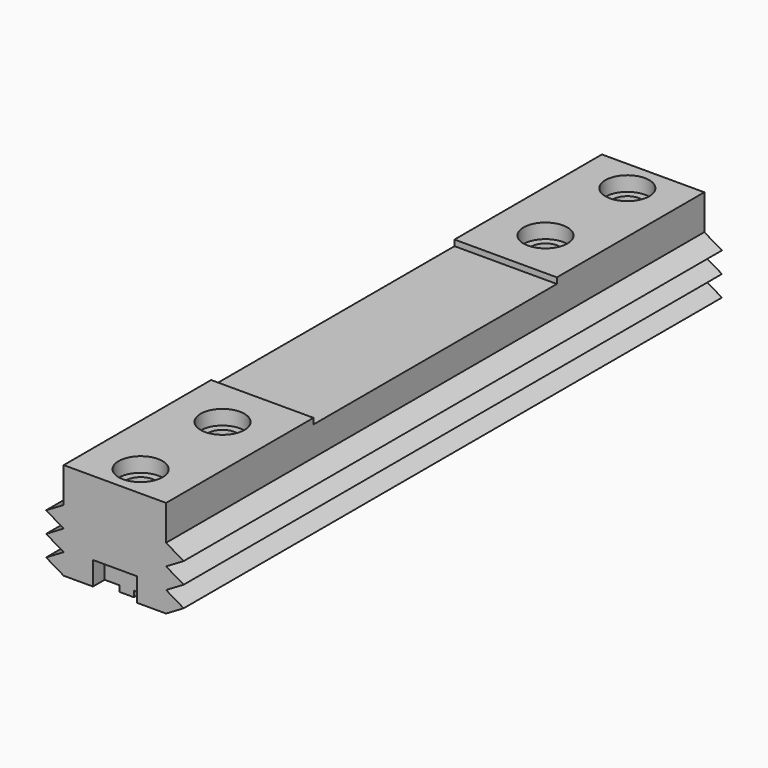
from build123d import *

# Parameters (mm, degrees)
F0_W      = 35
F0_H      = 63
F1_DEPTH  = 35.3
F2_W      = 15
F2_H      = 2
F3_DEPTH  = 63.001
F4_DEPTH  = 63
F5_R      = 5
F6_DEPTH  = 23
F5_R_2    = 7.5
F7_DEPTH  = 5
F9_DEPTH  = 5
F11_DEPTH = 104
F13_DEPTH = 63
F14_R     = 5
F15_DEPTH = 23
F14_R_2   = 7.5
F16_DEPTH = 5
F17_R     = 1.75
F18_DEPTH = 5
F20_DEPTH = 5


with BuildPart() as f1:
    # F0 (on Top) → F1 (new body)
    with BuildSketch(Plane.XY):
        with Locations((-0.486111, -31.5)):
            Rectangle(F0_W, F0_H)
    extrude(amount=-F1_DEPTH)

    # F2 (on face) → F3 (cut, through all)
    with BuildSketch(Plane.XZ.offset(63)):
        with Locations((9.513889, -34.3)):
            Rectangle(F2_W, F2_H)
        with Locations((-10.486111, -34.3)):
            Rectangle(F2_W, F2_H)
    extrude(amount=-F3_DEPTH, mode=Mode.SUBTRACT)

    # F2 (on face) → F4 (join)
    with BuildSketch(Plane.XZ.offset(63)):
        Polygon((-17.986111, -19.1), (-17.986111, -12), (-24.006156, -15.55), align=None)
        Polygon((-17.986111, -26.2), (-17.986111, -19.1), (-24.006156, -22.65), align=None)
        Polygon((-17.986111, -33.3), (-17.986111, -26.2), (-24.006156, -29.75), align=None)
        Polygon((23.033934, -29.75), (17.013889, -26.2), (17.013889, -33.3), align=None)
        Polygon((23.033934, -15.55), (17.013889, -12), (17.013889, -19.1), align=None)
        Polygon((23.033934, -22.65), (17.013889, -19.1), (17.013889, -26.2), align=None)
    extrude(amount=-F4_DEPTH)

    # F5 (on face) → F6 (cut)
    with BuildSketch(Plane.XY):
        with Locations((-0.486111, -17)):
            Circle(F5_R)
        with Locations((-0.486111, -52)):
            Circle(F5_R)
    extrude(amount=-F6_DEPTH, mode=Mode.SUBTRACT)

    # F5 (on face) → F7 (cut)
    with BuildSketch(Plane.XY):
        with Locations((-0.486111, -17)):
            Circle(F5_R_2)
        with Locations((-0.486111, -17)):
            Circle(F5_R, mode=Mode.SUBTRACT)
        with Locations((-0.486111, -52)):
            Circle(F5_R_2)
        with Locations((-0.486111, -52)):
            Circle(F5_R, mode=Mode.SUBTRACT)
    extrude(amount=-F7_DEPTH, mode=Mode.SUBTRACT)

    # F8 (on face) → F9 (cut)
    with BuildSketch(Plane.XZ.offset(63)):
        Polygon((-0.486111, -25.3), (-7.986111, -25.3), (-7.986111, -35.504304), (7.013889, -35.504304), (7.013889, -25.3), align=None)
    extrude(amount=-F9_DEPTH, mode=Mode.SUBTRACT)

    # F10 (on face) → F11 (join)
    with BuildSketch(Plane(origin=(0, 0, 0), x_dir=(-1, 0, 0), z_dir=(0, 1, 0))):
        Polygon((17.986111, -2), (-17.013889, -2), (-17.013889, -12), (-23.033934, -15.55), (-17.013889, -19.1), (-23.033934, -22.65), (-17.013889, -26.2), (-23.033934, -29.75), (-17.013889, -33.3), (-2.013889, -33.3), (-2.013889, -35.3), (2.986111, -35.3), (2.986111, -33.3), (17.986111, -33.3), (24.006156, -29.75), (17.986111, -26.2), (24.006156, -22.65), (17.986111, -19.1), (24.006156, -15.55), (17.986111, -12), align=None)
        Polygon((17.986111, -2), (-17.013889, -2), (-17.013889, -12), (-23.033934, -15.55), (-17.013889, -19.1), (-23.033934, -22.65), (-17.013889, -26.2), (-23.033934, -29.75), (-17.013889, -33.3), (-2.013889, -33.3), (-2.013889, -35.3), (2.986111, -35.3), (2.986111, -33.3), (17.986111, -33.3), (24.006156, -29.75), (17.986111, -26.2), (24.006156, -22.65), (17.986111, -19.1), (24.006156, -15.55), (17.986111, -12), align=None)
    extrude(amount=F11_DEPTH)

    # F12 (on face) → F13 (join)
    with BuildSketch(Plane(origin=(0, 104, 0), x_dir=(-1, 0, 0), z_dir=(0, 1, 0))):
        Polygon((17.986111, 0), (-17.013889, 0), (-17.013889, -12), (-23.033934, -15.55), (-17.013889, -19.1), (-23.033934, -22.65), (-17.013889, -26.2), (-23.033934, -29.75), (-17.013889, -33.3), (-2.013889, -33.3), (-2.013889, -35.3), (2.986111, -35.3), (2.986111, -33.3), (17.986111, -33.3), (24.006156, -29.75), (17.986111, -26.2), (24.006156, -22.65), (17.986111, -19.1), (24.006156, -15.55), (17.986111, -12), align=None)
    extrude(amount=F13_DEPTH)

    # F14 (on face) → F15 (cut)
    with BuildSketch(Plane.XY):
        with Locations((-0.486111, 156)):
            Circle(F14_R)
        with Locations((-0.486111, 121)):
            Circle(F14_R)
    extrude(amount=-F15_DEPTH, mode=Mode.SUBTRACT)

    # F14 (on face) → F16 (cut)
    with BuildSketch(Plane.XY):
        with Locations((-0.486111, 156)):
            Circle(F14_R_2)
        with Locations((-0.486111, 156)):
            Circle(F14_R, mode=Mode.SUBTRACT)
        with Locations((-0.486111, 121)):
            Circle(F14_R_2)
        with Locations((-0.486111, 121)):
            Circle(F14_R, mode=Mode.SUBTRACT)
    extrude(amount=-F16_DEPTH, mode=Mode.SUBTRACT)

    # F17 (on face) → F18 (join)
    with BuildSketch(Plane(origin=(0, 0, -35.3), x_dir=(1, 0, 0), z_dir=(0, 0, -1))):
        with Locations((-0.486111, -52)):
            Circle(F17_R)
    extrude(amount=F18_DEPTH)

    # F19 (on face) → F20 (cut)
    with BuildSketch(Plane(origin=(0, 167, 0), x_dir=(-1, 0, 0), z_dir=(0, 1, 0))):
        Polygon((7.986111, -25.3), (0.486111, -25.3), (-7.013889, -25.3), (-7.013889, -35.3), (0.486111, -35.3), (7.986111, -35.3), align=None)
    extrude(amount=-F20_DEPTH, mode=Mode.SUBTRACT)


solid = f1.part
